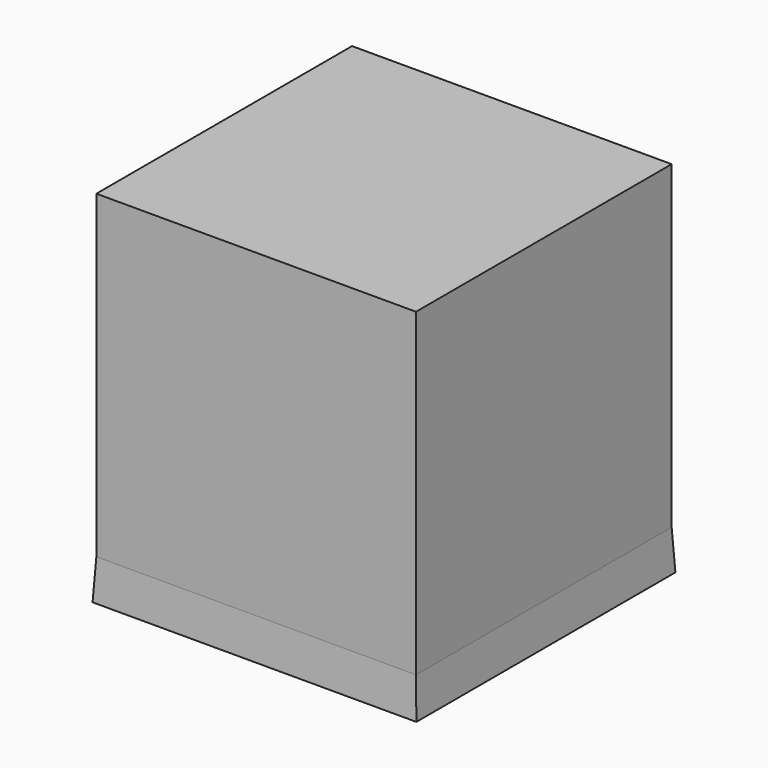
from build123d import *

# Parameters (mm, degrees)
F0_W     = 25.4
F0_H     = 25.4
F1_DEPTH = 3.175
F1_TAPER = -3
F2_DEPTH = 25.4


with BuildPart() as f1:
    # F0 (on Top) → F1 (new body)
    with BuildSketch(Plane.XY):
        Rectangle(F0_W, F0_H)
    extrude(amount=-F1_DEPTH, taper=F1_TAPER)

    # F2 (add): a face of the model
    f2_faces = [f1.faces().sort_by_distance(p)[0] for p in [
        (0, 0, 0),
    ]]
    extrude(f2_faces, amount=F2_DEPTH)


solid = f1.part
